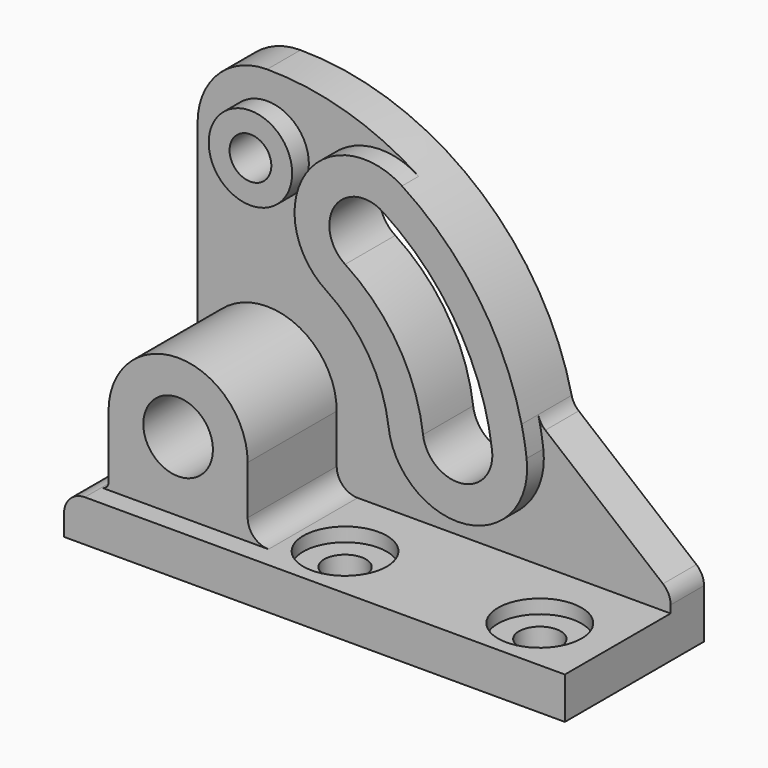
from build123d import *

# Parameters (mm, degrees)
F1_DEPTH        = 25
F2_R            = 6
F3_DEPTH        = 19
F4_R            = 6
F5_DEPTH        = 16
F7_DEPTH        = 3
F9_D            = 10
F11_D           = 6
F13_DEPTH       = 9
F15_D           = 6
F15_CBORE_D     = 12
F15_CBORE_DEPTH = 2


with BuildPart() as f1:
    # F0 (on Front) → F1 (new body)
    with BuildSketch(Plane.XZ):
        with BuildLine():
            Line((-14, -16), (0, -16))
            Line((0, -16), (58, -16))
            Line((58, -16), (58, -8.9151388271))
            ThreePointArc((58, -8.9151388271), (57.7132792525, -7.6352498874), (56.9079228681, -6.6000080901))
            Line((56.9079228681, -6.6000080901), (39.9944124577, 7.3385884551))
            ThreePointArc((39.9944124577, 7.3385884551), (39.3510237496, 8.0754894114), (38.9789165822, 8.9802038996))
            ThreePointArc((38.9789165822, 8.9802038996), (24.9077482324, 31.2986274139), (0, 40))
            ThreePointArc((0, 40), (-7.0710678119, 37.0710678119), (-10, 30))
            Line((-10, 30), (-10, -9))
            ThreePointArc((-10, -9), (-10.2928932188, -9.7071067812), (-11, -10))
            ThreePointArc((-11, -10), (-13.1213203436, -10.8786796564), (-14, -13))
            Line((-14, -13), (-14, -16))
        make_face()
    extrude(amount=F1_DEPTH)

    # F2 (on face) → F3 (cut)
    with BuildSketch(Plane.XZ.offset(25)):
        with BuildLine():
            ThreePointArc((-10, 0), (0, 10), (10, 0))
            Line((10, 0), (10, -7))
            ThreePointArc((10, -7), (10.8786796564, -9.1213203436), (13, -10))
            Line((13, -10), (58, -10))
            Line((58, -10), (58, -8.9151388271))
            ThreePointArc((58, -8.9151388271), (57.7132792525, -7.6352498874), (56.9079228681, -6.6000080901))
            Line((56.9079228681, -6.6000080901), (39.9944124577, 7.3385884551))
            ThreePointArc((39.9944124577, 7.3385884551), (39.3510237496, 8.0754894114), (38.9789165822, 8.9802038996))
            ThreePointArc((38.9789165822, 8.9802038996), (39.3938985367, 6.9369127198), (39.7018460657, 4.8747737362))
            ThreePointArc((39.7018460657, 4.8747737362), (30.9950779833, -6.2693812143), (19.8509230328, 2.4373868681))
            ThreePointArc((19.8509230328, 2.4373868681), (16.9609619231, 10.5983852847), (10.8927807003, 16.7734113589))
            ThreePointArc((10.8927807003, 16.7734113589), (7.952465371, 30.6065073885), (21.7855614006, 33.5468227178))
            ThreePointArc((21.7855614006, 33.5468227178), (11.3606137882, 38.3527893947), (0, 40))
            ThreePointArc((0, 40), (-7.0710678119, 37.0710678119), (-10, 30))
            Line((-10, 30), (-10, 0))
        make_face()
        with Locations((0, 30)):
            Circle(F2_R, mode=Mode.SUBTRACT)
    extrude(amount=-F3_DEPTH, mode=Mode.SUBTRACT)

    # F4 (on face) → F5 (cut)
    with BuildSketch(Plane.XZ.offset(25)):
        with Locations((0, 30)):
            Circle(F4_R)
        with BuildLine():
            ThreePointArc((39.7018460657, 4.8747737362), (33.9219238463, 21.1967705693), (21.7855614006, 33.5468227178))
            ThreePointArc((21.7855614006, 33.5468227178), (7.952465371, 30.6065073885), (10.8927807003, 16.7734113589))
            ThreePointArc((10.8927807003, 16.7734113589), (16.9609619231, 10.5983852847), (19.8509230328, 2.4373868681))
            ThreePointArc((19.8509230328, 2.4373868681), (30.9950779833, -6.2693812143), (39.7018460657, 4.8747737362))
        make_face()
    extrude(amount=-F5_DEPTH, mode=Mode.SUBTRACT)

    # F6 (on face) → F7 (cut)
    with BuildSketch(Plane.XZ.offset(25)):
        with BuildLine():
            Line((-11, -10), (13, -10))
            ThreePointArc((13, -10), (10.8786796564, -9.1213203436), (10, -7))
            Line((10, -7), (10, 0))
            ThreePointArc((10, 0), (0, 10), (-10, 0))
            Line((-10, 0), (-10, -9))
            ThreePointArc((-10, -9), (-10.2928932188, -9.7071067812), (-11, -10))
        make_face()
    extrude(amount=-F7_DEPTH, mode=Mode.SUBTRACT)

    # F9 (through all)
    with Locations(Plane.XZ.offset(22)):
        with Locations((0, 0)):
            Hole(F9_D / 2)

    # F11 (through all)
    with Locations(Plane.XZ.offset(9)):
        with Locations((0, 30)):
            Hole(F11_D / 2)

    # F12 (on face) → F13 (cut)
    with BuildSketch(Plane.XZ.offset(9)):
        with BuildLine():
            ThreePointArc((34.7391153074, 4.2654270192), (29.6816833655, 18.5471742482), (19.0623662255, 29.3534698781))
            ThreePointArc((19.0623662255, 29.3534698781), (12.1458182107, 27.8833122134), (13.6159758754, 20.9667641986))
            ThreePointArc((13.6159758754, 20.9667641986), (21.2012024039, 13.2479816058), (24.813653791, 3.0467335851))
            ThreePointArc((24.813653791, 3.0467335851), (30.3857312663, -1.3066504561), (34.7391153074, 4.2654270192))
        make_face()
    extrude(amount=-F13_DEPTH, mode=Mode.SUBTRACT)

    # F15 (through all)
    with Locations(Plane.XY.offset(-10)):
        with Locations((20, -17), (48, -17)):
            CounterBoreHole(F15_D / 2, F15_CBORE_D / 2, F15_CBORE_DEPTH)


solid = f1.part
